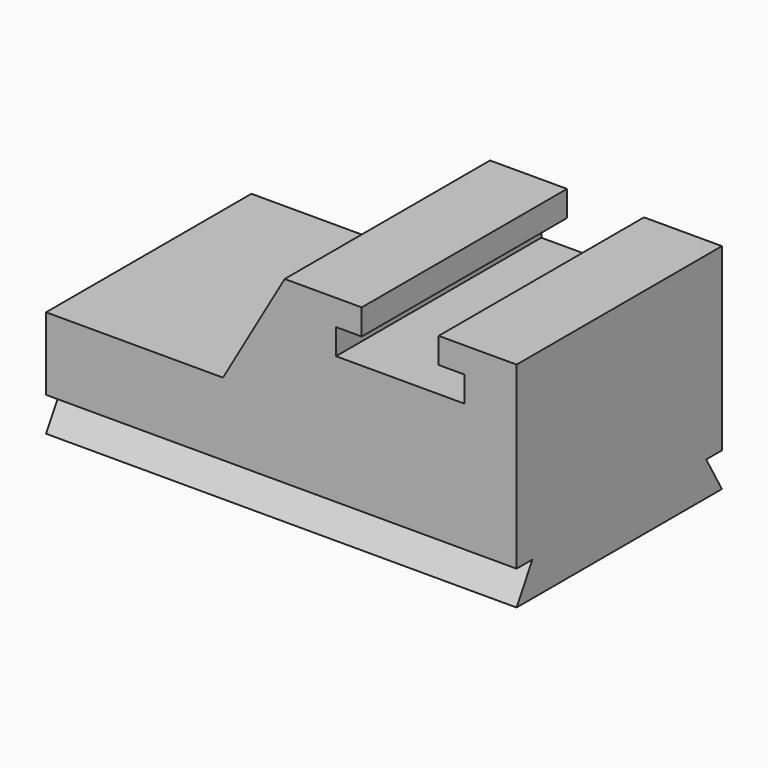
from build123d import *

# Parameters (mm, degrees)
F0_W     = 2794
F0_H     = 1270
F1_DEPTH = 1524
F3_DEPTH = 1524.001
F5_DEPTH = 1524.001
F7_DEPTH = 2794.001
F9_DEPTH = 2794.001


with BuildPart() as f1:
    # F0 (on Front) → F1 (new body)
    with BuildSketch(Plane.XZ):
        with Locations((1397, 635)):
            Rectangle(F0_W, F0_H)
    extrude(amount=F1_DEPTH)

    # F2 (on face) → F3 (cut, through all)
    with BuildSketch(Plane.XZ.offset(1524)):
        Polygon((2331.349306, 1270), (1874.149306, 1270), (1874.149306, 1117.6), (1721.749306, 1117.6), (1721.749306, 965.2), (2483.749306, 965.2), (2483.749306, 1117.6), (2331.349306, 1117.6), align=None)
    extrude(amount=-F3_DEPTH, mode=Mode.SUBTRACT)

    # F4 (on face) → F5 (cut, through all)
    with BuildSketch(Plane.XZ.offset(1524)):
        Polygon((1050.331885, 635), (1416.949306, 1270), (0, 1270), (0, 635), align=None)
    extrude(amount=-F5_DEPTH, mode=Mode.SUBTRACT)

    # F6 (on face) → F7 (cut, through all)
    with BuildSketch(Plane(origin=(0, 0, 0), x_dir=(0, -1, 0), z_dir=(-1, 0, 0))):
        Polygon((0, 202.109794), (0, 0), (116.688144, 202.109794), align=None)
    extrude(amount=-F7_DEPTH, mode=Mode.SUBTRACT)

    # F8 (on face) → F9 (cut, through all)
    with BuildSketch(Plane(origin=(0, 0, 0), x_dir=(0, -1, 0), z_dir=(-1, 0, 0))):
        Polygon((1406.682425, 203.2), (1524, 0), (1524, 203.2), align=None)
    extrude(amount=-F9_DEPTH, mode=Mode.SUBTRACT)


solid = f1.part
